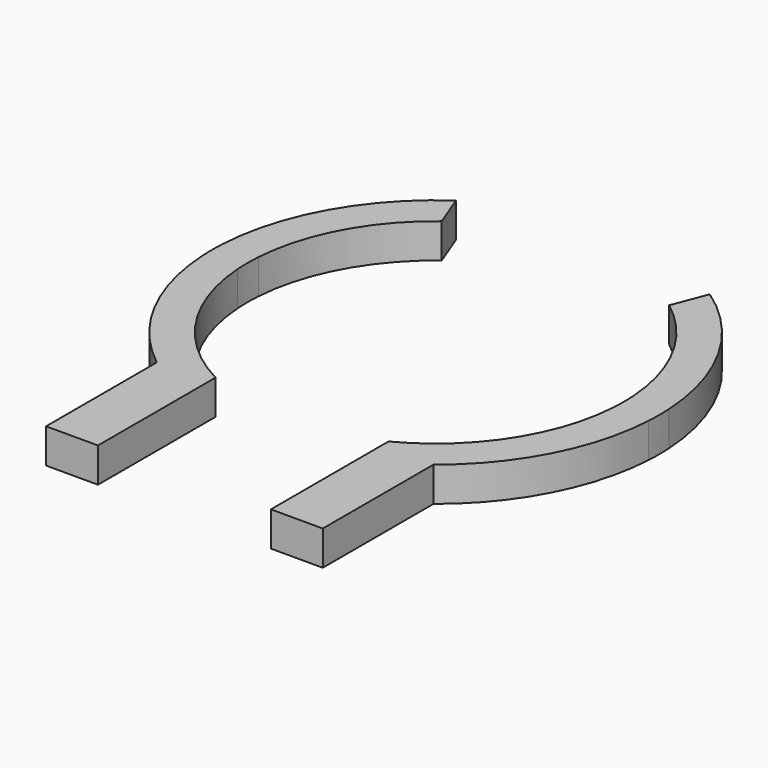
from build123d import *

# Parameters (mm, degrees)
F1_DEPTH = 25.4


with BuildPart() as f1:
    # F0 (on Top) → F1 (new body)
    with BuildSketch(Plane.XY):
        with BuildLine():
            Line((-63.5, -230.599143), (-63.5, -122.649145))
            ThreePointArc((-63.5, -122.649145), (-115.447157, -75.80908), (-137.78366, -9.525))
            Line((-137.78366, -9.525), (-163.928683, -9.525))
            ThreePointArc((-163.928683, -9.525), (-145.584642, -75.950317), (-101.6, -128.999143))
            Line((-101.6, -128.999143), (-101.6, -230.599143))
            Line((-101.6, -230.599143), (-63.5, -230.599143))
        make_face()
        with BuildLine():
            Line((-163.928683, -9.525), (-137.78366, -9.525))
            ThreePointArc((-137.78366, -9.525), (-138.1125, 0), (-137.78366, 9.525))
            Line((-137.78366, 9.525), (-163.928683, 9.525))
            Line((-163.928683, 9.525), (-163.928683, -9.525))
        make_face()
        with BuildLine():
            Line((-163.928683, 9.525), (-137.78366, 9.525))
            ThreePointArc((-137.78366, 9.525), (-121.524353, 65.626932), (-83.529033, 109.990742))
            Line((-83.529033, 109.990742), (-93.189989, 135.199722))
            ThreePointArc((-93.189989, 135.199722), (-143.094503, 80.54379), (-163.928683, 9.525))
        make_face()
        with BuildLine():
            ThreePointArc((-163.928683, 9.525), (-164.205173, 0), (-163.928683, -9.525))
            Line((-163.928683, -9.525), (-163.928683, 9.525))
        make_face()
        with BuildLine():
            ThreePointArc((163.928683, 9.525), (143.094503, 80.54379), (93.189989, 135.199722))
            Line((93.189989, 135.199722), (83.529033, 109.990742))
            ThreePointArc((83.529033, 109.990742), (121.524353, 65.626932), (137.78366, 9.525))
            Line((137.78366, 9.525), (163.928683, 9.525))
        make_face()
        with BuildLine():
            Line((163.928683, -9.525), (163.928683, 9.525))
            Line((163.928683, 9.525), (137.78366, 9.525))
            ThreePointArc((137.78366, 9.525), (138.1125, 0), (137.78366, -9.525))
            Line((137.78366, -9.525), (163.928683, -9.525))
        make_face()
        with BuildLine():
            ThreePointArc((163.928683, -9.525), (164.205173, 0), (163.928683, 9.525))
            Line((163.928683, 9.525), (163.928683, -9.525))
        make_face()
        with BuildLine():
            ThreePointArc((101.6, -128.999143), (145.584642, -75.950317), (163.928683, -9.525))
            Line((163.928683, -9.525), (137.78366, -9.525))
            ThreePointArc((137.78366, -9.525), (115.447157, -75.80908), (63.5, -122.649145))
            Line((63.5, -122.649145), (63.5, -230.599143))
            Line((63.5, -230.599143), (101.6, -230.599143))
            Line((101.6, -230.599143), (101.6, -128.999143))
        make_face()
    extrude(amount=F1_DEPTH)


solid = f1.part
